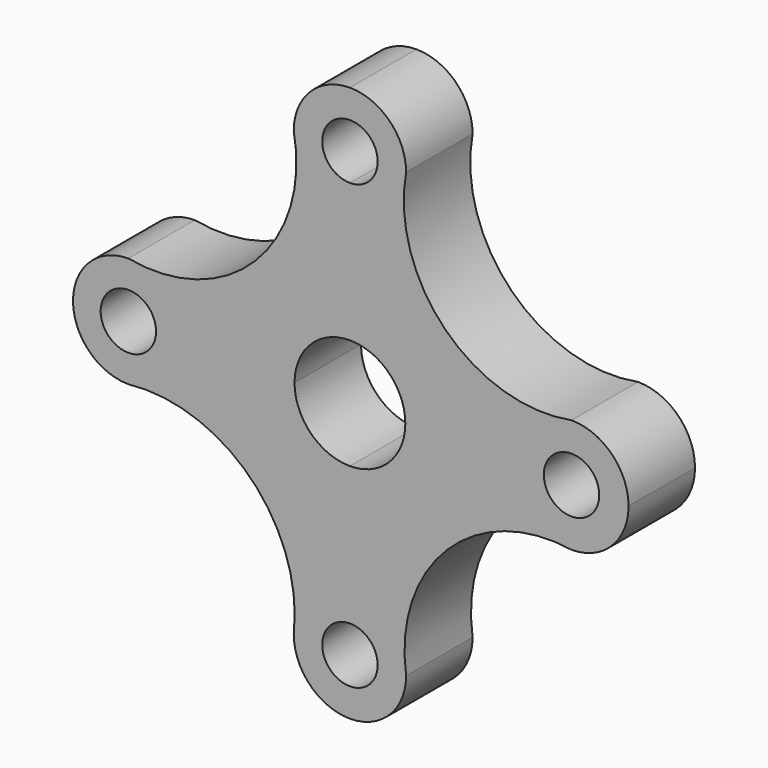
from build123d import *

# Parameters (mm, degrees)
F0_R     = 6.35
F1_DEPTH = 19.05


with BuildPart() as f1:
    # F0 (on Front) → F1 (new body)
    with BuildSketch(Plane.XZ):
        with BuildLine():
            ThreePointArc((6.35, -50.8), (4.490128, -46.309872), (0, -44.45))
            ThreePointArc((0, -44.45), (-4.490128, -55.290128), (6.35, -50.8))
        make_face()
        with Locations((-50.8, 0)):
            Circle(F0_R)
        with BuildLine():
            ThreePointArc((6.35, 50.8), (-4.490128, 55.290128), (0, 44.45))
            ThreePointArc((0, 44.45), (4.490128, 46.309872), (6.35, 50.8))
        make_face()
        with BuildLine():
            ThreePointArc((57.15, 0), (50.8, 6.35), (44.45, 0))
            ThreePointArc((44.45, 0), (50.8, -6.35), (57.15, 0))
        make_face()
        with BuildLine():
            ThreePointArc((12.883376, 50.8), (9.109922, 59.909922), (0, 63.683376))
            ThreePointArc((0, 63.683376), (-9.109922, 59.909922), (-12.883376, 50.8))
            ThreePointArc((-12.883376, 50.8), (-21.70632, 21.661631), (-50.8, 12.692425))
            ThreePointArc((-50.8, 12.692425), (-59.7749, 8.9749), (-63.492425, 0))
            ThreePointArc((-63.492425, 0), (-59.7749, -8.9749), (-50.8, -12.692425))
            ThreePointArc((-50.8, -12.692425), (-22.664281, -22.614792), (-12.883376, -50.8))
            ThreePointArc((-12.883376, -50.8), (-9.109922, -59.909922), (0, -63.683376))
            ThreePointArc((0, -63.683376), (9.109922, -59.909922), (12.883376, -50.8))
            ThreePointArc((12.883376, -50.8), (22.285467, -22.332575), (50.8, -13.074334))
            ThreePointArc((50.8, -13.074334), (60.04495, -9.24495), (63.874334, 0))
            ThreePointArc((63.874334, 0), (60.04495, 9.24495), (50.8, 13.074334))
            ThreePointArc((50.8, 13.074334), (21.896637, 21.941776), (12.883376, 50.8))
        make_face()
        with BuildLine():
            ThreePointArc((6.35, -50.8), (-4.490128, -55.290128), (0, -44.45))
            ThreePointArc((0, -44.45), (4.490128, -46.309872), (6.35, -50.8))
        make_face(mode=Mode.SUBTRACT)
        with Locations((-50.8, 0)):
            Circle(F0_R, mode=Mode.SUBTRACT)
        with BuildLine():
            ThreePointArc((0, 12.7), (8.980256, 8.980256), (12.7, 0))
            ThreePointArc((12.7, 0), (8.980256, -8.980256), (0, -12.7))
            ThreePointArc((0, -12.7), (-8.980256, -8.980256), (-12.7, 0))
            ThreePointArc((-12.7, 0), (-8.980256, 8.980256), (0, 12.7))
        make_face(mode=Mode.SUBTRACT)
        with BuildLine():
            ThreePointArc((6.35, 50.8), (4.490128, 46.309872), (0, 44.45))
            ThreePointArc((0, 44.45), (-4.490128, 55.290128), (6.35, 50.8))
        make_face(mode=Mode.SUBTRACT)
        with BuildLine():
            ThreePointArc((57.15, 0), (50.8, -6.35), (44.45, 0))
            ThreePointArc((44.45, 0), (50.8, 6.35), (57.15, 0))
        make_face(mode=Mode.SUBTRACT)
    extrude(amount=F1_DEPTH)


solid = f1.part
